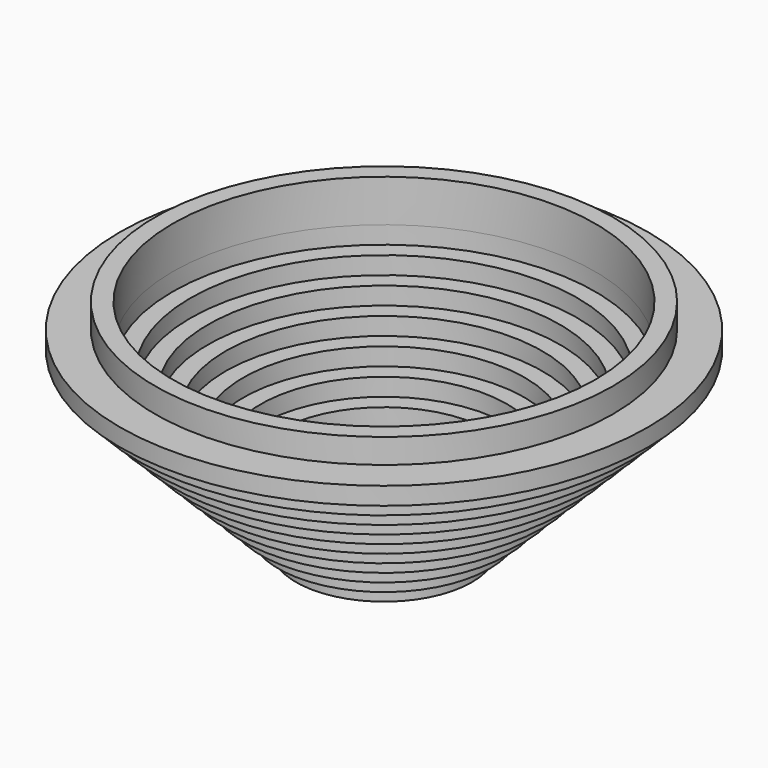
from build123d import *

# Parameters (mm, degrees)
F2_R     = 130
F2_R_2   = 120
F3_DEPTH = 24


with BuildPart() as f1:
    # F0 (on Front) → F1 (revolve)
    with BuildSketch(Plane.XZ):
        Polygon((0, 10), (0, 0), (50, 0), (50, 10), (60, 10), (60, 20), (70, 20), (70, 30), (80, 30), (80, 40), (90, 40), (90, 50), (100, 50), (100, 60), (110, 60), (110, 70), (120, 70), (120, 80), (130, 80), (130, 90), (140, 90), (140, 100), (150, 100), (150, 110), (130, 110), (130, 100), (120, 100), (120, 90), (110, 90), (110, 80), (100, 80), (100, 70), (90, 70), (90, 60), (80, 60), (80, 50), (70, 50), (70, 40), (60, 40), (60, 30), (50, 30), (50, 20), (40, 20), (40, 10), align=None)
    revolve(axis=Axis((0, 0, 5), (0, 0, -1)))

    # F2 (on face) → F3 (join)
    with BuildSketch(Plane.XY.offset(100)):
        Circle(F2_R)
        Circle(F2_R_2, mode=Mode.SUBTRACT)
    extrude(amount=F3_DEPTH)


solid = f1.part
